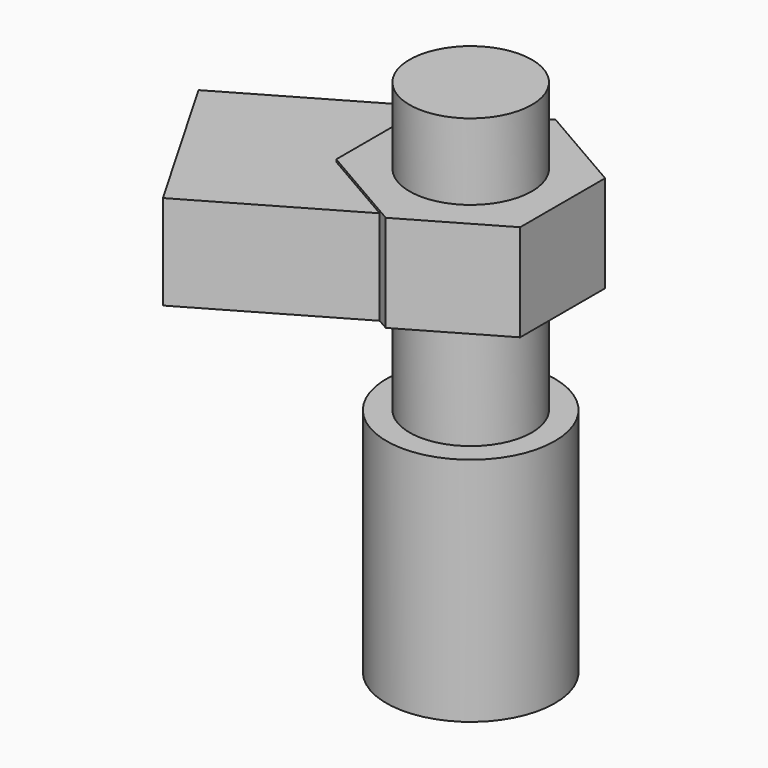
from build123d import *

# Parameters (mm, degrees)
BOX014_W                                          = 8
BOX014_H                                          = 10
BOX014_DEPTH                                      = 4.1
PRISM009_DEPTH                                    = 4.2
CYLINDER014005916_R                               = 3.65
CYLINDER014005916_DEPTH                           = 10
CYLINDER014005905_R                               = 2.65
CYLINDER014005905_DEPTH                           = 22.5
FUSION001089102007007003008034017_PLACEMENT_ANGLE = 120


with BuildPart() as krychle014:
    # Box014 → Box014 (new body)
    with BuildSketch(Plane(origin=(-3.5, 0, 7), x_dir=(1, 0, 0), z_dir=(0, 0, 1))):
        with Locations((4, 5)):
            Rectangle(BOX014_W, BOX014_H)
    extrude(amount=BOX014_DEPTH)


with BuildPart() as m4x005:
    # prism009 → prism009 (new body)
    with BuildSketch(Plane(origin=(0, 0, 7), x_dir=(0, 1, 0), z_dir=(0, 0, 1))):
        Polygon((4.6, 0), (2.3, 3.983717), (-2.3, 3.983717), (-4.6, 0), (-2.3, -3.983717), (2.3, -3.983717), align=None)
    extrude(amount=PRISM009_DEPTH)


with BuildPart() as obj1:
    # Cylinder014005916 → Cylinder014005916 (new body)
    with BuildSketch(Plane.XY.offset(-8)):
        Circle(CYLINDER014005916_R)
    extrude(amount=CYLINDER014005916_DEPTH)


with BuildPart() as m4nut014:
    # Cylinder014005905 → Cylinder014005905 (new body)
    with BuildSketch(Plane.XY.offset(-8)):
        Circle(CYLINDER014005905_R)
    extrude(amount=CYLINDER014005905_DEPTH)

    # Fusion001089102007007003008034015: union Krychle014, M4X005, obj1
    add(krychle014.part)
    add(m4x005.part)
    add(obj1.part)


with BuildPart() as m4nut014_1:
    # Fusion001089102007007003008034015 placement: moved
    add(m4nut014.part.moved(Location((0, -45, 0))))


with BuildPart() as m4nut014_2:
    # Fusion001089102007007003008034017 placement: moved
    add(m4nut014_1.part.rotate(Axis((0, 0, 0), (0, 0, 1)), FUSION001089102007007003008034017_PLACEMENT_ANGLE))


solid = m4nut014_2.part
